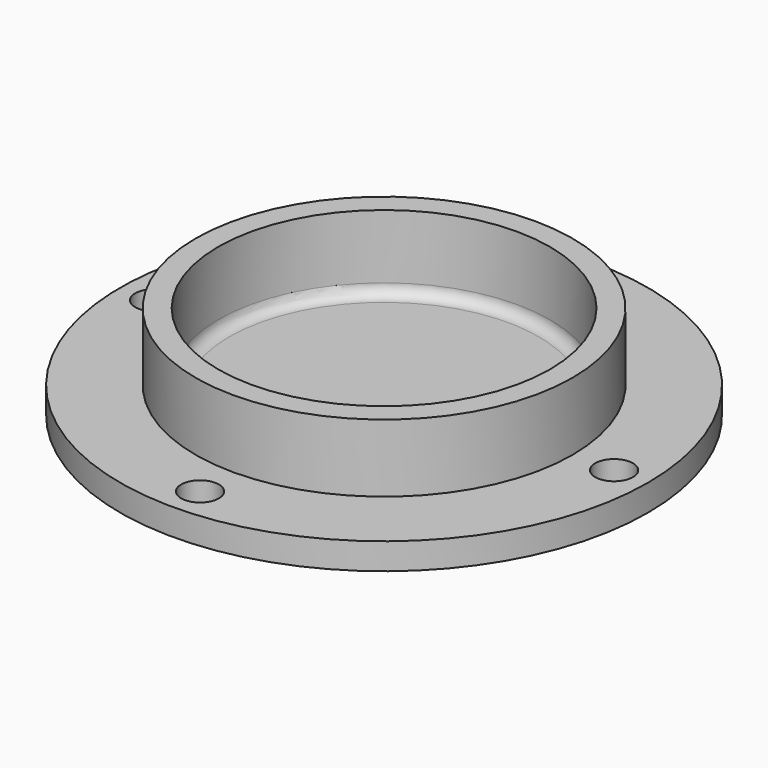
from build123d import *

# Parameters (mm, degrees)
F0_R     = 70
F0_R_2   = 5
F1_DEPTH = 7
F2_R     = 50
F2_R_2   = 44
F3_DEPTH = 18
F4_R     = 44
F5_DEPTH = 2
F6_R     = 3


with BuildPart() as f1:
    # F0 (on Top) → F1 (new body)
    with BuildSketch(Plane.XY):
        Circle(F0_R)
        with Locations((0, -61)):
            Circle(F0_R_2, mode=Mode.SUBTRACT)
        with Locations((-61, 0)):
            Circle(F0_R_2, mode=Mode.SUBTRACT)
        with Locations((61, 0)):
            Circle(F0_R_2, mode=Mode.SUBTRACT)
        with Locations((0, 61)):
            Circle(F0_R_2, mode=Mode.SUBTRACT)
    extrude(amount=F1_DEPTH)

    # F2 (on face) → F3 (join)
    with BuildSketch(Plane.XY.offset(7)):
        Circle(F2_R)
        Circle(F2_R_2, mode=Mode.SUBTRACT)
    extrude(amount=F3_DEPTH)

    # F4 (on face) → F5 (cut)
    with BuildSketch(Plane.XY.offset(7)):
        Circle(F4_R)
    extrude(amount=-F5_DEPTH, mode=Mode.SUBTRACT)

    # F6
    f6_edges = [f1.edges().sort_by_distance(p)[0] for p in [
        (-44, 0, 5),
    ]]
    fillet(f6_edges, radius=F6_R)


solid = f1.part
